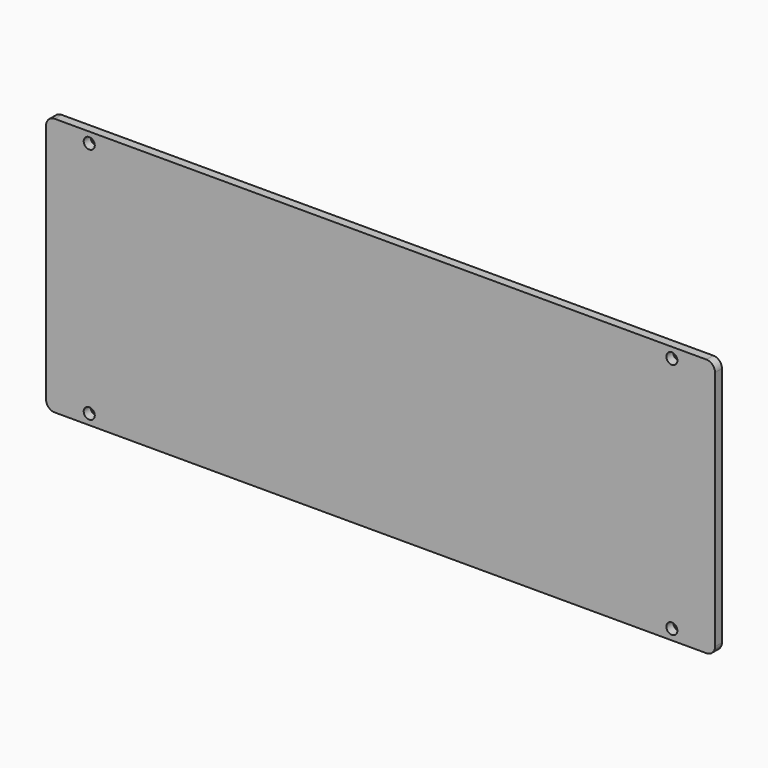
from build123d import *

# Parameters (mm, degrees)
F0_W     = 196.85
F0_H     = 76.073
F1_DEPTH = 1.27
F2_R     = 2.54
F4_D     = 3.2512


with BuildPart() as f1:
    # F0 (on Front) → F1 (new body, symmetric)
    with BuildSketch(Plane.XZ):
        Rectangle(F0_W, F0_H)
    extrude(amount=F1_DEPTH, both=True)

    # F2
    f2_edges = [f1.edges().sort_by_distance(p)[0] for p in [
        (-98.425, 0, 38.0365),
        (-98.425, 0, -38.0365),
        (98.425, 0, -38.0365),
        (98.425, 0, 38.0365),
    ]]
    fillet(f2_edges, radius=F2_R)

    # F4 (through all)
    with Locations(Plane.XZ.offset(1.27)):
        with Locations((85.725, 34.9885), (85.725, -34.9885), (-85.725, -34.9885), (-85.725, 34.9885)):
            Hole(F4_D / 2)


solid = f1.part
